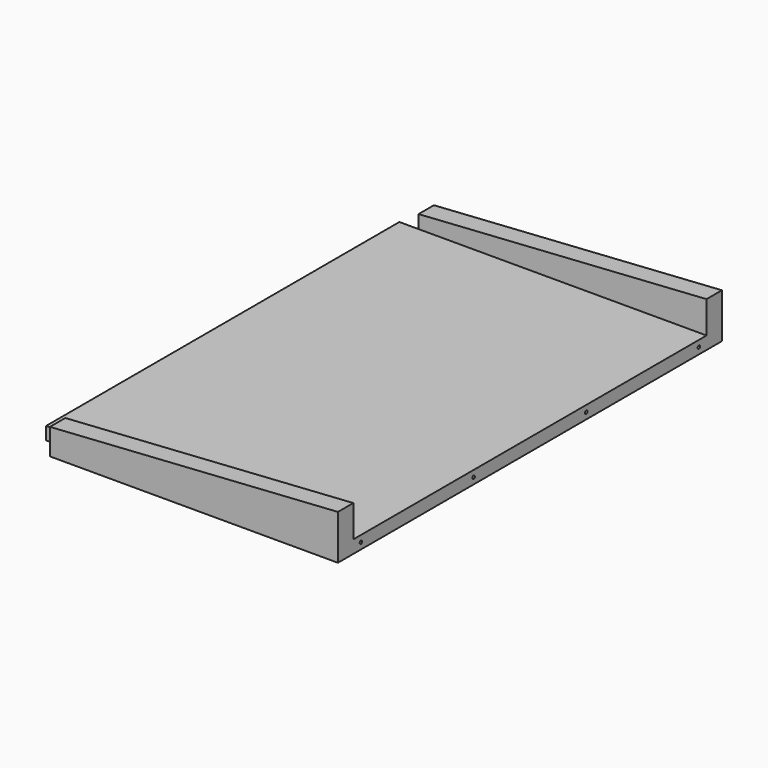
from build123d import *

# Parameters (mm, degrees)
F0_W      = 460
F0_H      = 750
F1_DEPTH  = 20
F3_D      = 5
F4_W      = 460
F4_H      = 30
F5_DEPTH  = 50
F7_DEPTH  = 750
F8_W      = 30
F8_H      = 40
F9_DEPTH  = 10
F10_DEPTH = 25
F11_DEPTH = 20


with BuildPart() as f1:
    # F0 (on Top) → F1 (new body)
    with BuildSketch(Plane.XY):
        with Locations((-230, -375)):
            Rectangle(F0_W, F0_H)
    extrude(amount=F1_DEPTH)

    # F3 (through all)
    with Locations(Plane.YZ):
        with Locations((-705, 10), (-485, 10), (-265, 10), (-45, 10)):
            Hole(F3_D / 2)

    # F4 (on face) → F5 (join)
    with BuildSketch(Plane.XY.offset(20)):
        with Locations((-230, -735)):
            Rectangle(F4_W, F4_H)
        with Locations((-230, -15)):
            Rectangle(F4_W, F4_H)
    extrude(amount=F5_DEPTH)

    # F6 (on face) → F7 (cut)
    with BuildSketch(Plane(origin=(0, 0, 0), x_dir=(-1, 0, 0), z_dir=(0, 1, 0))):
        Polygon((0, 70), (460, 40), (460, 70), align=None)
    extrude(amount=-F7_DEPTH, mode=Mode.SUBTRACT)

    # F8 (on face) → F9 (cut)
    with BuildSketch(Plane(origin=(-460, 0, 0), x_dir=(0, -1, 0), z_dir=(-1, 0, 0))):
        with Locations((15, 20)):
            Rectangle(F8_W, F8_H)
        with Locations((735, 20)):
            Rectangle(F8_W, F8_H)
    extrude(amount=-F9_DEPTH, mode=Mode.SUBTRACT)

    # F10 (cut): faces of the model
    f10_faces = [f1.faces().sort_by_distance(p)[0] for p in [
        (-455, -15, 40),
        (-455, -735, 40),
    ]]
    extrude(f10_faces, amount=-F10_DEPTH, mode=Mode.SUBTRACT)

    # F11 (add): a face of the model
    f11_faces = [f1.faces().sort_by_distance(p)[0] for p in [
        (-460, -375, 10),
    ]]
    extrude(f11_faces, amount=F11_DEPTH)


solid = f1.part
